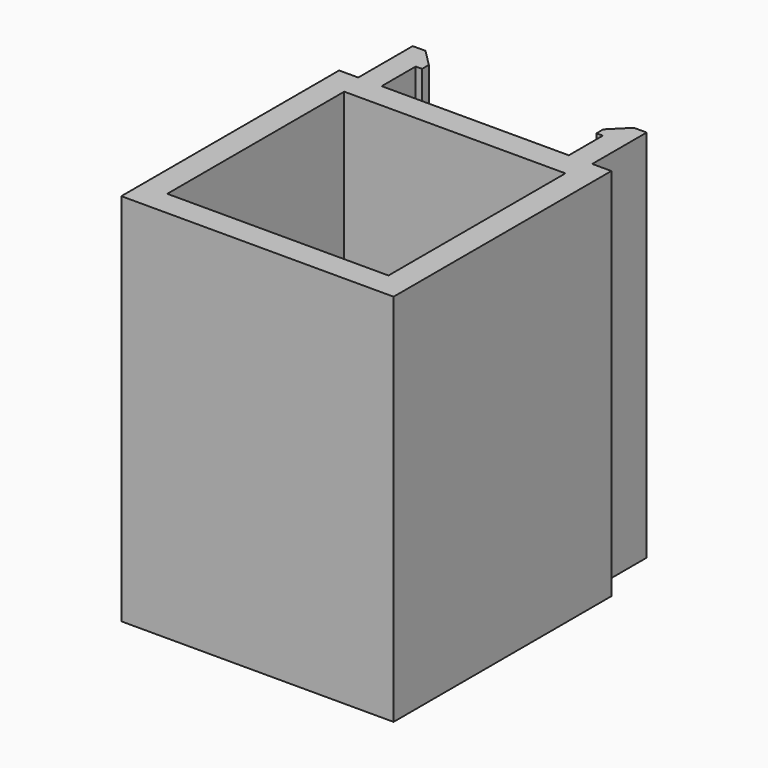
from build123d import *

# Parameters (mm, degrees)
F0_W     = 10.25
F0_H     = 16
F0_W_2   = 1.375
F0_W_3   = 1.125
F0_W_4   = 0.375
F1_DEPTH = 22
F2_W     = 13
F2_H     = 13
F3_DEPTH = 20.5


with BuildPart() as f1:
    # F0 (on Top) → F1 (new body)
    with BuildSketch(Plane.XY):
        Rectangle(F0_W, F0_H)
        with Locations((-6.1875, 0)):
            Rectangle(F0_W_2, F0_H)
        with Locations((-7.4375, 0)):
            Rectangle(F0_W_3, F0_H)
        with Locations((6.1875, 0)):
            Rectangle(F0_W_2, F0_H)
        with Locations((7.4375, 0)):
            Rectangle(F0_W_3, F0_H)
        Polygon((-6.875, 8), (-5.5, 8), (-5.5, 10.5), (-5.125, 10.5), (-5.125, 11), (-6.125, 12), (-6.875, 12), align=None)
        Polygon((5.5, 8), (6.875, 8), (6.875, 12), (6.125, 12), (5.125, 11), (5.125, 10.5), (5.5, 10.5), align=None)
        with Locations((-5.3125, 0)):
            Rectangle(F0_W_4, F0_H)
        with Locations((5.3125, 0)):
            Rectangle(F0_W_4, F0_H)
    extrude(amount=F1_DEPTH)

    # F2 (on face) → F3 (cut)
    with BuildSketch(Plane.XY.offset(22)):
        Rectangle(F2_W, F2_H)
    extrude(amount=-F3_DEPTH, mode=Mode.SUBTRACT)


solid = f1.part
